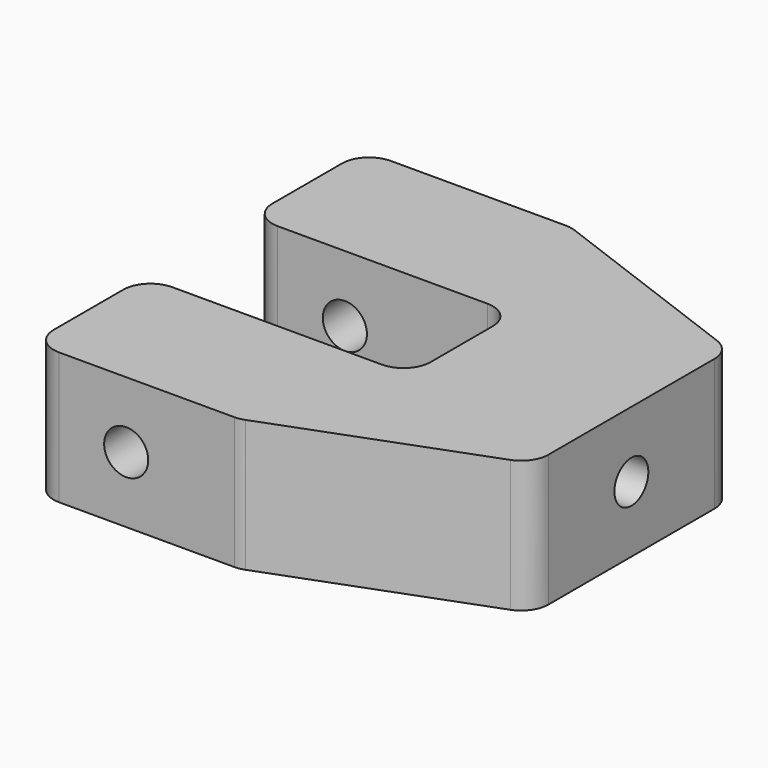
from build123d import *

# Parameters (mm, degrees)
PAD_DEPTH            = 14
POCKET_DEPTH         = 6
SKETCH002_R          = 2.25
POCKET001_DEPTH      = 46.001
SKETCH003_R          = 2.339712
POCKET002_DEPTH      = 1000
POCKET002_DEPTH_BACK = -100
FILLET_R             = 2.88


with BuildPart() as part:
    # Sketch → Pad (new body)
    with BuildSketch(Plane.XY):
        Polygon((-22, 7), (6, 7), (6, -7), (-22, -7), (-22, -22), (0, -22), (24, -13), (24, 13), (0, 22), (-22, 22), align=None)
    extrude(amount=PAD_DEPTH)

    # Sketch001 (on Face2 of Pad) → Pocket (cut)
    with BuildSketch(Plane(origin=(6, 0, 0), x_dir=(0, -1, 0), z_dir=(-1, 0, 0))):
        Polygon((-2.020726, 3.5), (2.020726, 3.5), (4.041452, 7), (2.020726, 10.5), (-2.020726, 10.5), (-4.041452, 7), align=None)
    extrude(amount=-POCKET_DEPTH, mode=Mode.SUBTRACT)

    # Sketch002 (on Face17 of Pocket) → Pocket001 (cut, through all)
    with BuildSketch(Plane.YZ.offset(24)):
        with Locations((0, 7)):
            Circle(SKETCH002_R)
    extrude(amount=-POCKET001_DEPTH, mode=Mode.SUBTRACT)

    # Sketch003 (on Face1 of Pocket001) → Pocket002 (cut, two sides)
    with BuildSketch(Plane.XZ.offset(-7)) as pocket002_sk:
        with Locations((-12, 7)):
            Circle(SKETCH003_R)
    extrude(amount=-POCKET002_DEPTH, mode=Mode.SUBTRACT)
    extrude(pocket002_sk.sketch, amount=-POCKET002_DEPTH_BACK, mode=Mode.SUBTRACT)

    # Fillet
    fillet_edges = [part.edges().sort_by_distance(p)[0] for p in [
        (6, -7, 7),
        (6, 7, 7),
        (-22, -7, 7),
        (-22, -22, 7),
        (0, -22, 7),
        (24, -13, 7),
        (24, 13, 7),
        (0, 22, 7),
        (-22, 22, 7),
        (-22, 7, 7),
    ]]
    fillet(fillet_edges, radius=FILLET_R)


solid = part.part
